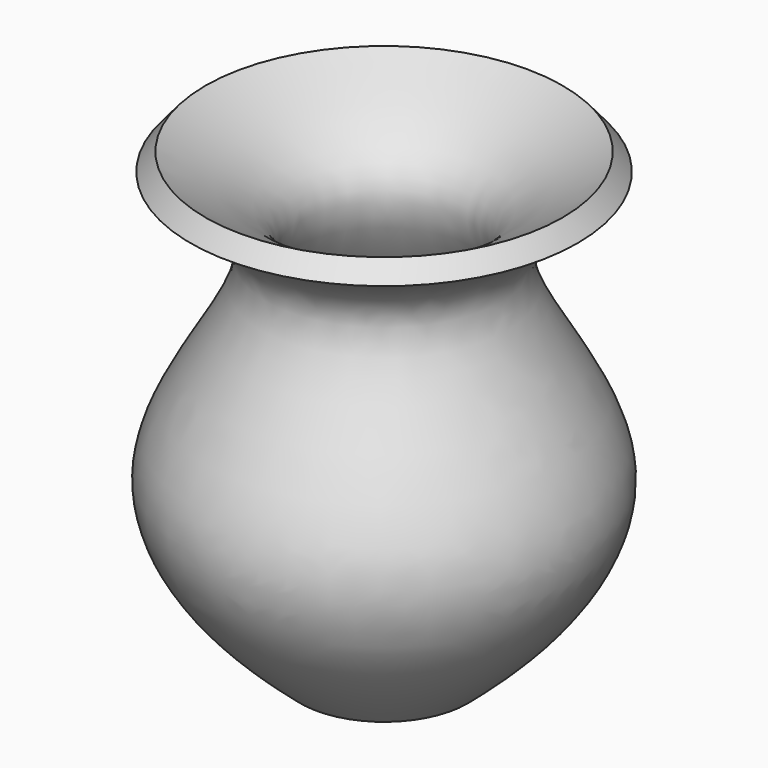
from build123d import *


with BuildPart() as f1:
    # F0 (on Front) → F1 (revolve)
    with BuildSketch(Plane.XZ):
        with BuildLine():
            Line((-33.5501357913, -46.2647899985), (-12.3993754387, -46.2647899985))
            add(Edge.make_bspline(
                [(-12.3993754387, -46.2647899985), (2.9620667217, -33.2472559881), (32.3706801965, -1.8404232297), (-16.9373803682, 47.0552946269), (5.8043503853, 59.7929568398), (15.2620254084, 64.9021416903)],
                knots=[0, 0, 0, 0, 0.3752339923, 0.7350467489, 1, 1, 1, 1], degree=3))
            Line((15.2620254084, 64.9021416903), (11.4982360974, 69.3776756525))
            add(Edge.make_bspline(
                [(-17.8930796683, -40.8528894186), (-2.9397550375, -27.8878386903), (27.1306746315, -2.6478772964), (-27.9147985866, 49.9209718292), (-0.4624583357, 62.2974732237), (11.4982360974, 69.3776756525)],
                knots=[0, 0, 0, 0, 0.3520572981, 0.7137276498, 1, 1, 1, 1], degree=3))
            Line((-17.8930796683, -40.8528894186), (-33.5501357913, -40.8528894186))
            Line((-33.5501357913, -40.8528894186), (-33.5501357913, -46.2647899985))
        make_face()
    revolve(axis=Axis((-33.5501357913, 0, 17.0092433691), (0, 0, 1)))


solid = f1.part
